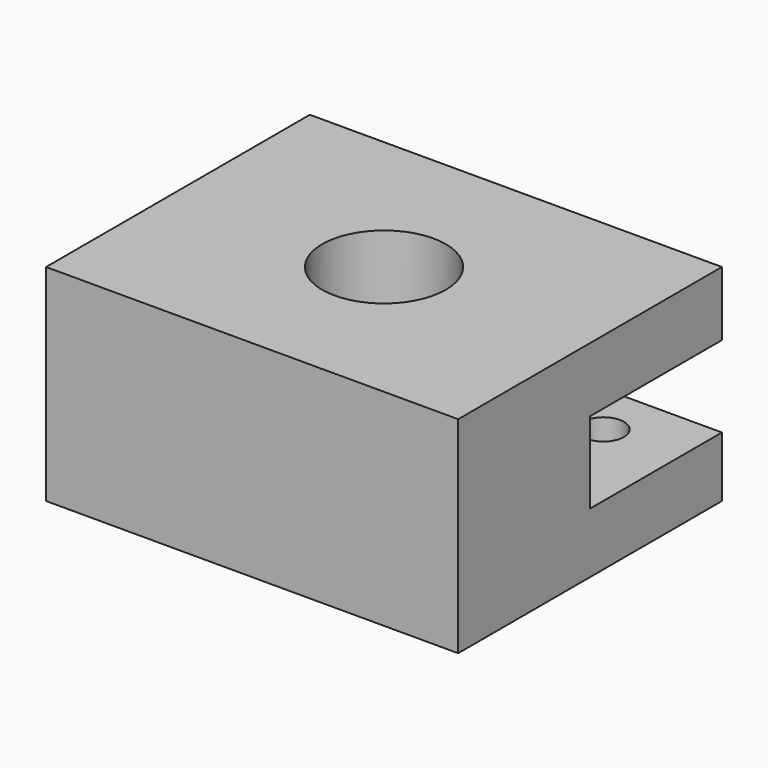
from build123d import *

# Parameters (mm, degrees)
F0_W     = 100
F0_H     = 80
F0_R     = 15
F1_DEPTH = 50
F2_W     = 132.103257
F2_H     = 19.725826
F3_DEPTH = 50
F4_R     = 5
F5_DEPTH = 25


with BuildPart() as f1:
    # F0 (on Top) → F1 (new body)
    with BuildSketch(Plane.XY):
        Rectangle(F0_W, F0_H)
        Circle(F0_R, mode=Mode.SUBTRACT)
    extrude(amount=F1_DEPTH)

    # F2 (on Front) → F3 (cut)
    with BuildSketch(Plane.XZ):
        with Locations((2.241571, 24.507845)):
            Rectangle(F2_W, F2_H)
    extrude(amount=-F3_DEPTH, mode=Mode.SUBTRACT)

    # F4 (on Top) → F5 (cut)
    with BuildSketch(Plane.XY):
        with Locations((31.663418, 26.944561)):
            Circle(F4_R)
    extrude(amount=F5_DEPTH, mode=Mode.SUBTRACT)


solid = f1.part
